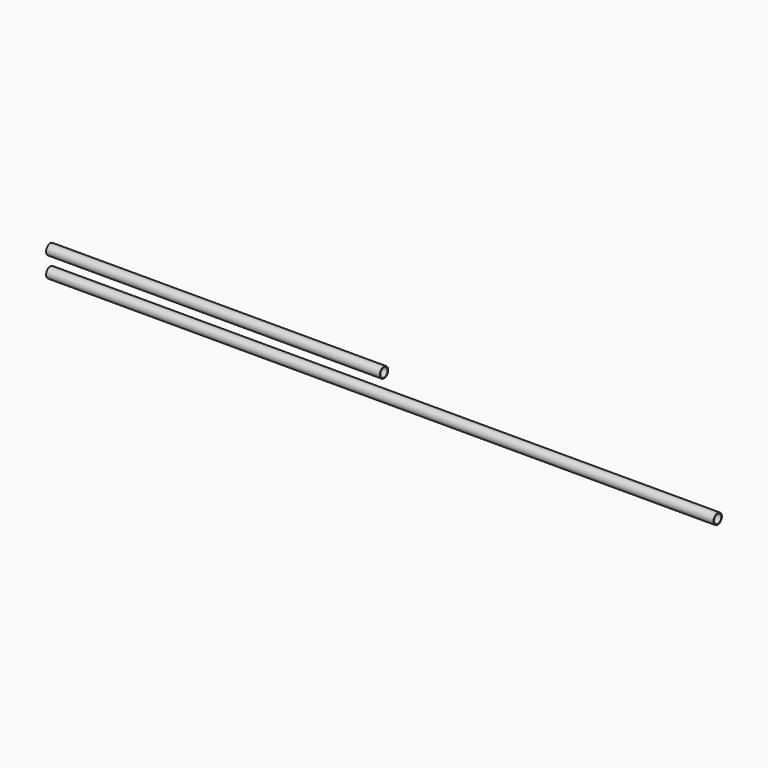
from build123d import *

# Parameters (mm, degrees)
F0_R     = 24
F0_R_2   = 20.5
F1_DEPTH = 3048
F2_R     = 24
F2_R_2   = 20.5
F3_DEPTH = 1524


with BuildPart() as f1:
    # F0 (on Right) → F1 (new body)
    with BuildSketch(Plane.YZ):
        Circle(F0_R)
        Circle(F0_R_2, mode=Mode.SUBTRACT)
    extrude(amount=F1_DEPTH)


with BuildPart() as f3:
    # F2 (on Right) → F3 (new body)
    with BuildSketch(Plane.YZ):
        with Locations((0, 93.00001)):
            Circle(F2_R)
        with Locations((0, 93.00001)):
            Circle(F2_R_2, mode=Mode.SUBTRACT)
    extrude(amount=F3_DEPTH)


solid = Compound([f1.part, f3.part])
